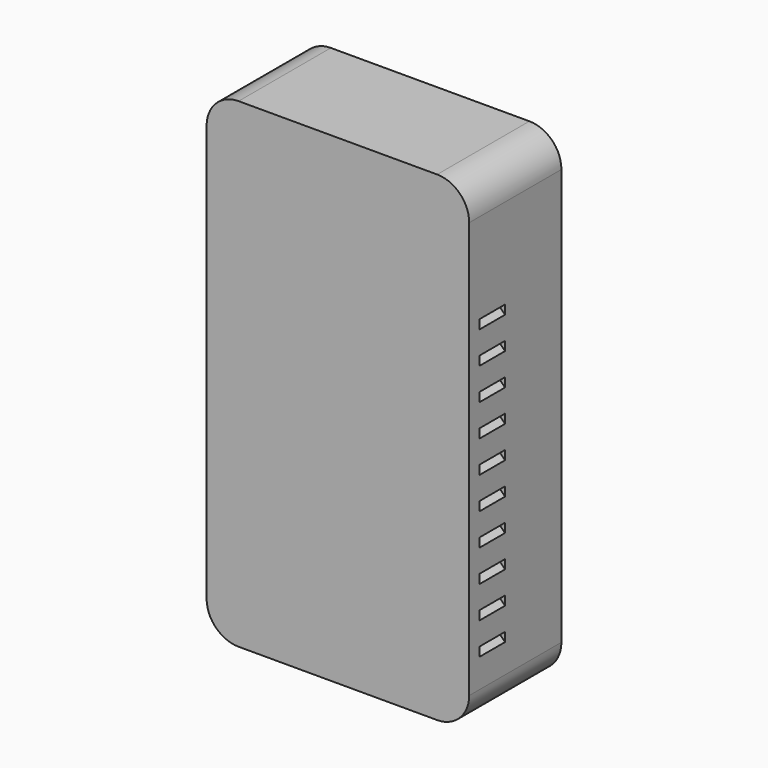
from build123d import *

# Parameters (mm, degrees)
BOX057_W                    = 20
BOX057_H                    = 10
BOX057_DEPTH                = 2
BOX057_PLACEMENT_ANGLE      = 45
BOX058_W                    = 20
BOX058_H                    = 10
BOX058_DEPTH                = 2
BOX058_PLACEMENT_ANGLE      = 45
BOX059_W                    = 20
BOX059_H                    = 10
BOX059_DEPTH                = 2
BOX059_PLACEMENT_ANGLE      = 45
BOX060_W                    = 10
BOX060_H                    = 10
BOX060_DEPTH                = 2
BOX060_PLACEMENT_ANGLE      = 45
BOX061_W                    = 20
BOX061_H                    = 10
BOX061_DEPTH                = 2
BOX061_PLACEMENT_ANGLE      = 45
BOX062_W                    = 20
BOX062_H                    = 10
BOX062_DEPTH                = 2
BOX062_PLACEMENT_ANGLE      = 45
BOX063_W                    = 20
BOX063_H                    = 10
BOX063_DEPTH                = 2
BOX063_PLACEMENT_ANGLE      = 45
BOX064_W                    = 10
BOX064_H                    = 10
BOX064_DEPTH                = 2
BOX064_PLACEMENT_ANGLE      = 45
BOX065_W                    = 20
BOX065_H                    = 10
BOX065_DEPTH                = 2
BOX065_PLACEMENT_ANGLE      = 45
BOX066_W                    = 20
BOX066_H                    = 10
BOX066_DEPTH                = 2
BOX066_PLACEMENT_ANGLE      = 45
BOX056_W                    = 20
BOX056_H                    = 10
BOX056_DEPTH                = 2
BOX056_PLACEMENT_ANGLE      = 45
FUSION037_PLACEMENT_ANGLE   = 180
BOX046_W                    = 20
BOX046_H                    = 10
BOX046_DEPTH                = 2
BOX046_PLACEMENT_ANGLE      = 45
BOX047_W                    = 20
BOX047_H                    = 10
BOX047_DEPTH                = 2
BOX047_PLACEMENT_ANGLE      = 45
BOX048_W                    = 20
BOX048_H                    = 10
BOX048_DEPTH                = 2
BOX048_PLACEMENT_ANGLE      = 45
BOX049_W                    = 10
BOX049_H                    = 10
BOX049_DEPTH                = 2
BOX049_PLACEMENT_ANGLE      = 45
BOX050_W                    = 20
BOX050_H                    = 10
BOX050_DEPTH                = 2
BOX050_PLACEMENT_ANGLE      = 45
BOX051_W                    = 20
BOX051_H                    = 10
BOX051_DEPTH                = 2
BOX051_PLACEMENT_ANGLE      = 45
BOX052_W                    = 20
BOX052_H                    = 10
BOX052_DEPTH                = 2
BOX052_PLACEMENT_ANGLE      = 45
BOX053_W                    = 20
BOX053_H                    = 10
BOX053_DEPTH                = 2
BOX053_PLACEMENT_ANGLE      = 45
BOX054_W                    = 20
BOX054_H                    = 10
BOX054_DEPTH                = 2
BOX054_PLACEMENT_ANGLE      = 45
BOX055_W                    = 20
BOX055_H                    = 10
BOX055_DEPTH                = 2
BOX055_PLACEMENT_ANGLE      = 45
BOX045_W                    = 20
BOX045_H                    = 10
BOX045_DEPTH                = 2
BOX045_PLACEMENT_ANGLE      = 315
BOX043_W                    = 5
BOX043_H                    = 5
BOX043_DEPTH                = 5
CYLINDER081_R               = 1.6
CYLINDER081_DEPTH           = 12
CYLINDER080_R               = 3.5
CYLINDER080_DEPTH           = 12
CYLINDER075_R               = 2.8
CYLINDER075_DEPTH           = 10
CYLINDER074_R               = 5.5
CYLINDER074_DEPTH           = 22
CYLINDER074_ROLL_ANGLE      = 90.312904
CYLINDER074_PITCH_ANGLE     = -60.355913
CYLINDER074_PLACEMENT_ANGLE = 179.461903
CYLINDER077_R               = 2.8
CYLINDER077_DEPTH           = 10
CYLINDER076_R               = 5.5
CYLINDER076_DEPTH           = 22
CYLINDER076_ROLL_ANGLE      = 90
CYLINDER076_PITCH_ANGLE     = -60
CYLINDER076_PLACEMENT_ANGLE = 180
CYLINDER079_R               = 2.8
CYLINDER079_DEPTH           = 10
CYLINDER078_R               = 5.5
CYLINDER078_DEPTH           = 22
CYLINDER078_ROLL_ANGLE      = 90
CYLINDER078_PITCH_ANGLE     = -60
CYLINDER078_PLACEMENT_ANGLE = 180
CYLINDER054_R               = 1.6
CYLINDER054_DEPTH           = 12
CYLINDER055_R               = 1.6
CYLINDER055_DEPTH           = 12
CYLINDER056_R               = 1.6
CYLINDER056_DEPTH           = 12
CYLINDER057_R               = 1.6
CYLINDER057_DEPTH           = 12
CYLINDER058_R               = 1.6
CYLINDER058_DEPTH           = 12
CYLINDER059_R               = 1.6
CYLINDER059_DEPTH           = 12
CYLINDER060_R               = 1.6
CYLINDER060_DEPTH           = 12
CYLINDER061_R               = 1.6
CYLINDER061_DEPTH           = 12
CYLINDER062_R               = 3.5
CYLINDER062_DEPTH           = 12
CYLINDER063_R               = 3.5
CYLINDER063_DEPTH           = 12
CYLINDER064_R               = 3.5
CYLINDER064_DEPTH           = 12
CYLINDER065_R               = 3.5
CYLINDER065_DEPTH           = 12
CYLINDER066_R               = 3.5
CYLINDER066_DEPTH           = 12
CYLINDER067_R               = 3.5
CYLINDER067_DEPTH           = 12
CYLINDER068_R               = 3.5
CYLINDER068_DEPTH           = 12
CYLINDER051_R               = 1.57
CYLINDER051_DEPTH           = 6
CYLINDER050_R               = 5.3
CYLINDER050_DEPTH           = 6
CYLINDER052_W               = 5.3
CYLINDER052_H               = 6
CYLINDER052_ANGLE           = 270
CYLINDER053_W               = 5.3
CYLINDER053_H               = 6
CYLINDER053_ANGLE           = 270
CYLINDER045_W               = 10
CYLINDER045_H               = 34
CYLINDER045_ANGLE           = 90
BOX035_W                    = 10
BOX035_H                    = 34
BOX035_DEPTH                = 10
CUT031_PLACEMENT_ANGLE      = 180
CYLINDER046_W               = 10
CYLINDER046_H               = 34
CYLINDER046_ANGLE           = 90
BOX036_W                    = 10
BOX036_H                    = 34
BOX036_DEPTH                = 10
CUT032_PLACEMENT_ANGLE      = 180
CYLINDER047_W               = 10
CYLINDER047_H               = 34
CYLINDER047_ANGLE           = 90
BOX037_W                    = 10
BOX037_H                    = 34
BOX037_DEPTH                = 10
CUT033_PITCH_ANGLE          = -90
CUT033_PLACEMENT_ANGLE      = -180
CYLINDER044_W               = 10
CYLINDER044_H               = 34
CYLINDER044_ANGLE           = 90
BOX033_W                    = 10
BOX033_H                    = 34
BOX033_DEPTH                = 10
CUT030_PITCH_ANGLE          = 90
CUT030_PLACEMENT_ANGLE      = -180
BOX034_W                    = 78
BOX034_H                    = 34
BOX034_DEPTH                = 146
CYLINDER041_W               = 10
CYLINDER041_H               = 36
CYLINDER041_ANGLE           = 90
BOX030_W                    = 10
BOX030_H                    = 36
BOX030_DEPTH                = 10
CUT026_PLACEMENT_ANGLE      = 180
CYLINDER042_W               = 10
CYLINDER042_H               = 36
CYLINDER042_ANGLE           = 90
BOX031_W                    = 10
BOX031_H                    = 36
BOX031_DEPTH                = 10
CUT027_PLACEMENT_ANGLE      = 180
CYLINDER043_W               = 10
CYLINDER043_H               = 36
CYLINDER043_ANGLE           = 90
BOX032_W                    = 10
BOX032_H                    = 36
BOX032_DEPTH                = 10
CUT028_PITCH_ANGLE          = -90
CUT028_PLACEMENT_ANGLE      = -180
CYLINDER040_W               = 10
CYLINDER040_H               = 36
CYLINDER040_ANGLE           = 90
BOX028_W                    = 10
BOX028_H                    = 36
BOX028_DEPTH                = 10
CUT025_PITCH_ANGLE          = 90
CUT025_PLACEMENT_ANGLE      = -180
BOX029_W                    = 82
BOX029_H                    = 36
BOX029_DEPTH                = 150
CUT035_PLACEMENT_ANGLE      = 180
CYLINDER048_R               = 1.57
CYLINDER048_DEPTH           = 6
CYLINDER049_R               = 5.3
CYLINDER049_DEPTH           = 6
CYLINDER069_R               = 3.5
CYLINDER069_DEPTH           = 12
CYLINDER073_R               = 2.8
CYLINDER073_DEPTH           = 10
CYLINDER072_R               = 5.5
CYLINDER072_DEPTH           = 22
CYLINDER072_ROLL_ANGLE      = 90
CYLINDER072_PITCH_ANGLE     = -60
CYLINDER072_PLACEMENT_ANGLE = 180


with BuildPart() as cube048:
    # Box057 → Box057 (new body)
    with BuildSketch(Plane.XY):
        with Locations((10, 5)):
            Rectangle(BOX057_W, BOX057_H)
    extrude(amount=BOX057_DEPTH)


with BuildPart() as cube048_1:
    # Box057 placement: moved
    add(cube048.part.moved(Location((0, 0, 10))).rotate(Axis((0, 0, 10), (0, -1, 0)), BOX057_PLACEMENT_ANGLE))


with BuildPart() as cube049:
    # Box058 → Box058 (new body)
    with BuildSketch(Plane.XY):
        with Locations((10, 5)):
            Rectangle(BOX058_W, BOX058_H)
    extrude(amount=BOX058_DEPTH)


with BuildPart() as cube049_1:
    # Box058 placement: moved
    add(cube049.part.moved(Location((0, 0, 20))).rotate(Axis((0, 0, 20), (0, -1, 0)), BOX058_PLACEMENT_ANGLE))


with BuildPart() as cube050:
    # Box059 → Box059 (new body)
    with BuildSketch(Plane.XY):
        with Locations((10, 5)):
            Rectangle(BOX059_W, BOX059_H)
    extrude(amount=BOX059_DEPTH)


with BuildPart() as cube050_1:
    # Box059 placement: moved
    add(cube050.part.moved(Location((0, 0, 30))).rotate(Axis((0, 0, 30), (0, -1, 0)), BOX059_PLACEMENT_ANGLE))


with BuildPart() as cube051:
    # Box060 → Box060 (new body)
    with BuildSketch(Plane.XY):
        with Locations((5, 5)):
            Rectangle(BOX060_W, BOX060_H)
    extrude(amount=BOX060_DEPTH)


with BuildPart() as cube051_1:
    # Box060 placement: moved
    add(cube051.part.moved(Location((0, 0, 40))).rotate(Axis((0, 0, 40), (0, -1, 0)), BOX060_PLACEMENT_ANGLE))


with BuildPart() as cube052:
    # Box061 → Box061 (new body)
    with BuildSketch(Plane.XY):
        with Locations((10, 5)):
            Rectangle(BOX061_W, BOX061_H)
    extrude(amount=BOX061_DEPTH)


with BuildPart() as cube052_1:
    # Box061 placement: moved
    add(cube052.part.moved(Location((0, 0, 50))).rotate(Axis((0, 0, 50), (0, -1, 0)), BOX061_PLACEMENT_ANGLE))


with BuildPart() as cube053:
    # Box062 → Box062 (new body)
    with BuildSketch(Plane.XY):
        with Locations((10, 5)):
            Rectangle(BOX062_W, BOX062_H)
    extrude(amount=BOX062_DEPTH)


with BuildPart() as cube053_1:
    # Box062 placement: moved
    add(cube053.part.moved(Location((0, 0, 60))).rotate(Axis((0, 0, 60), (0, -1, 0)), BOX062_PLACEMENT_ANGLE))


with BuildPart() as cube054:
    # Box063 → Box063 (new body)
    with BuildSketch(Plane.XY):
        with Locations((10, 5)):
            Rectangle(BOX063_W, BOX063_H)
    extrude(amount=BOX063_DEPTH)


with BuildPart() as cube054_1:
    # Box063 placement: moved
    add(cube054.part.moved(Location((0, 0, 70))).rotate(Axis((0, 0, 70), (0, -1, 0)), BOX063_PLACEMENT_ANGLE))


with BuildPart() as cube055:
    # Box064 → Box064 (new body)
    with BuildSketch(Plane.XY):
        with Locations((5, 5)):
            Rectangle(BOX064_W, BOX064_H)
    extrude(amount=BOX064_DEPTH)


with BuildPart() as cube055_1:
    # Box064 placement: moved
    add(cube055.part.moved(Location((0, 0, 80))).rotate(Axis((0, 0, 80), (0, -1, 0)), BOX064_PLACEMENT_ANGLE))


with BuildPart() as cube056:
    # Box065 → Box065 (new body)
    with BuildSketch(Plane.XY):
        with Locations((10, 5)):
            Rectangle(BOX065_W, BOX065_H)
    extrude(amount=BOX065_DEPTH)


with BuildPart() as cube056_1:
    # Box065 placement: moved
    add(cube056.part.moved(Location((0, 0, 90))).rotate(Axis((0, 0, 90), (0, -1, 0)), BOX065_PLACEMENT_ANGLE))


with BuildPart() as cube057:
    # Box066 → Box066 (new body)
    with BuildSketch(Plane.XY):
        with Locations((10, 5)):
            Rectangle(BOX066_W, BOX066_H)
    extrude(amount=BOX066_DEPTH)


with BuildPart() as cube057_1:
    # Box066 placement: moved
    add(cube057.part.moved(Location((0, 0, 1000))).rotate(Axis((0, 0, 1000), (0, -1, 0)), BOX066_PLACEMENT_ANGLE))


with BuildPart() as fusion037:
    # Box056 → Box056 (new body)
    with BuildSketch(Plane.XY):
        with Locations((10, 5)):
            Rectangle(BOX056_W, BOX056_H)
    extrude(amount=BOX056_DEPTH)


with BuildPart() as fusion037_1:
    # Box056 placement: moved
    add(fusion037.part.rotate(Axis((0, 0, 0), (0, -1, 0)), BOX056_PLACEMENT_ANGLE))

    # Fusion037: union Cube048, Cube049, Cube050, Cube051, Cube052, Cube053, Cube054, Cube055, Cube056, Cube057
    add(cube048_1.part)
    add(cube049_1.part)
    add(cube050_1.part)
    add(cube051_1.part)
    add(cube052_1.part)
    add(cube053_1.part)
    add(cube054_1.part)
    add(cube055_1.part)
    add(cube056_1.part)
    add(cube057_1.part)


with BuildPart() as fusion037_2:
    # Fusion037 placement: moved
    add(fusion037_1.part.moved(Location((82, 0, 15))).rotate(Axis((82, 0, 15), (0, 0, 1)), FUSION037_PLACEMENT_ANGLE))


with BuildPart() as cube037:
    # Box046 → Box046 (new body)
    with BuildSketch(Plane.XY):
        with Locations((10, 5)):
            Rectangle(BOX046_W, BOX046_H)
    extrude(amount=BOX046_DEPTH)


with BuildPart() as cube037_1:
    # Box046 placement: moved
    add(cube037.part.moved(Location((0, 0, 10))).rotate(Axis((0, 0, 10), (0, -1, 0)), BOX046_PLACEMENT_ANGLE))


with BuildPart() as cube038:
    # Box047 → Box047 (new body)
    with BuildSketch(Plane.XY):
        with Locations((10, 5)):
            Rectangle(BOX047_W, BOX047_H)
    extrude(amount=BOX047_DEPTH)


with BuildPart() as cube038_1:
    # Box047 placement: moved
    add(cube038.part.moved(Location((0, 0, 20))).rotate(Axis((0, 0, 20), (0, -1, 0)), BOX047_PLACEMENT_ANGLE))


with BuildPart() as cube039:
    # Box048 → Box048 (new body)
    with BuildSketch(Plane.XY):
        with Locations((10, 5)):
            Rectangle(BOX048_W, BOX048_H)
    extrude(amount=BOX048_DEPTH)


with BuildPart() as cube039_1:
    # Box048 placement: moved
    add(cube039.part.moved(Location((0, 0, 30))).rotate(Axis((0, 0, 30), (0, -1, 0)), BOX048_PLACEMENT_ANGLE))


with BuildPart() as cube040:
    # Box049 → Box049 (new body)
    with BuildSketch(Plane.XY):
        with Locations((5, 5)):
            Rectangle(BOX049_W, BOX049_H)
    extrude(amount=BOX049_DEPTH)


with BuildPart() as cube040_1:
    # Box049 placement: moved
    add(cube040.part.moved(Location((0, 0, 40))).rotate(Axis((0, 0, 40), (0, -1, 0)), BOX049_PLACEMENT_ANGLE))


with BuildPart() as cube041:
    # Box050 → Box050 (new body)
    with BuildSketch(Plane.XY):
        with Locations((10, 5)):
            Rectangle(BOX050_W, BOX050_H)
    extrude(amount=BOX050_DEPTH)


with BuildPart() as cube041_1:
    # Box050 placement: moved
    add(cube041.part.moved(Location((0, 0, 50))).rotate(Axis((0, 0, 50), (0, -1, 0)), BOX050_PLACEMENT_ANGLE))


with BuildPart() as cube042:
    # Box051 → Box051 (new body)
    with BuildSketch(Plane.XY):
        with Locations((10, 5)):
            Rectangle(BOX051_W, BOX051_H)
    extrude(amount=BOX051_DEPTH)


with BuildPart() as cube042_1:
    # Box051 placement: moved
    add(cube042.part.moved(Location((0, 0, 60))).rotate(Axis((0, 0, 60), (0, -1, 0)), BOX051_PLACEMENT_ANGLE))


with BuildPart() as cube043:
    # Box052 → Box052 (new body)
    with BuildSketch(Plane.XY):
        with Locations((10, 5)):
            Rectangle(BOX052_W, BOX052_H)
    extrude(amount=BOX052_DEPTH)


with BuildPart() as cube043_1:
    # Box052 placement: moved
    add(cube043.part.moved(Location((0, 0, 70))).rotate(Axis((0, 0, 70), (0, -1, 0)), BOX052_PLACEMENT_ANGLE))


with BuildPart() as cube044:
    # Box053 → Box053 (new body)
    with BuildSketch(Plane.XY):
        with Locations((10, 5)):
            Rectangle(BOX053_W, BOX053_H)
    extrude(amount=BOX053_DEPTH)


with BuildPart() as cube044_1:
    # Box053 placement: moved
    add(cube044.part.moved(Location((0, 0, 80))).rotate(Axis((0, 0, 80), (0, -1, 0)), BOX053_PLACEMENT_ANGLE))


with BuildPart() as cube045:
    # Box054 → Box054 (new body)
    with BuildSketch(Plane.XY):
        with Locations((10, 5)):
            Rectangle(BOX054_W, BOX054_H)
    extrude(amount=BOX054_DEPTH)


with BuildPart() as cube045_1:
    # Box054 placement: moved
    add(cube045.part.moved(Location((0, 0, 90))).rotate(Axis((0, 0, 90), (0, -1, 0)), BOX054_PLACEMENT_ANGLE))


with BuildPart() as cube046:
    # Box055 → Box055 (new body)
    with BuildSketch(Plane.XY):
        with Locations((10, 5)):
            Rectangle(BOX055_W, BOX055_H)
    extrude(amount=BOX055_DEPTH)


with BuildPart() as cube046_1:
    # Box055 placement: moved
    add(cube046.part.moved(Location((0, 0, 1000))).rotate(Axis((0, 0, 1000), (0, -1, 0)), BOX055_PLACEMENT_ANGLE))


with BuildPart() as vents:
    # Box045 → Box045 (new body)
    with BuildSketch(Plane.XY):
        with Locations((10, 5)):
            Rectangle(BOX045_W, BOX045_H)
    extrude(amount=BOX045_DEPTH)


with BuildPart() as vents_1:
    # Box045 placement: moved
    add(vents.part.rotate(Axis((0, 0, 0), (0, 1, 0)), BOX045_PLACEMENT_ANGLE))

    # Fusion036: union Cube037, Cube038, Cube039, Cube040, Cube041, Cube042, Cube043, Cube044, Cube045, Cube046
    add(cube037_1.part)
    add(cube038_1.part)
    add(cube039_1.part)
    add(cube040_1.part)
    add(cube041_1.part)
    add(cube042_1.part)
    add(cube043_1.part)
    add(cube044_1.part)
    add(cube045_1.part)
    add(cube046_1.part)


with BuildPart() as vents_2:
    # Fusion036 placement: moved
    add(vents_1.part.moved(Location((-4, -10, 15))))

    # Fusion038: union Fusion037
    add(fusion037_2.part)


with BuildPart() as vents_3:
    # Fusion038 placement: moved
    add(vents_2.part.moved(Location((0, -32, 0))))


with BuildPart() as lightcut:
    # Box043 → Box043 (new body)
    with BuildSketch(Plane(origin=(54.5, -16, -6), x_dir=(1, 0, 0), z_dir=(0, 0, 1))):
        with Locations((2.5, 2.5)):
            Rectangle(BOX043_W, BOX043_H)
    extrude(amount=BOX043_DEPTH)


with BuildPart() as m2heatset009:
    # Cylinder081 → Cylinder081 (new body)
    with BuildSketch(Plane(origin=(8, -44, 67.1), x_dir=(1, 0, 0), z_dir=(0, 1, 0))):
        Circle(CYLINDER081_R)
    extrude(amount=CYLINDER081_DEPTH)


with BuildPart() as m2heatset010:
    # Cylinder080 → Cylinder080 (new body)
    with BuildSketch(Plane(origin=(8, -44, 67.1), x_dir=(1, 0, 0), z_dir=(0, 1, 0))):
        Circle(CYLINDER080_R)
    extrude(amount=CYLINDER080_DEPTH)

    # Cut043: cut m2HeatSet009
    add(m2heatset009.part, mode=Mode.SUBTRACT)


with BuildPart() as m4heatsetcut001:
    # Cylinder075 → Cylinder075 (new body)
    with BuildSketch(Plane(origin=(4.5, -32, 141.5), x_dir=(1, 0, 0), z_dir=(0, 1, 0))):
        Circle(CYLINDER075_R)
    extrude(amount=CYLINDER075_DEPTH)


with BuildPart() as m4heatsetholes001:
    # Cylinder074 → Cylinder074 (new body)
    with BuildSketch(Plane.XY):
        Circle(CYLINDER074_R)
    extrude(amount=CYLINDER074_DEPTH)


with BuildPart() as m4heatsetholes001_1:
    # Cylinder074 roll: moved
    add(m4heatsetholes001.part.rotate(Axis((0, 0, 0), (1, 0, 0)), CYLINDER074_ROLL_ANGLE))


with BuildPart() as m4heatsetholes001_2:
    # Cylinder074 pitch: moved
    add(m4heatsetholes001_1.part.rotate(Axis((0, 0, 0), (0, 1, 0)), CYLINDER074_PITCH_ANGLE))


with BuildPart() as m4heatsetholes001_3:
    # Cylinder074 placement: moved
    add(m4heatsetholes001_2.part.moved(Location((4.5, -44, 141.5))).rotate(Axis((4.5, -44, 141.5), (0, 0, 1)), CYLINDER074_PLACEMENT_ANGLE))

    # Cut040: cut m4HeatSetCut001
    add(m4heatsetcut001.part, mode=Mode.SUBTRACT)


with BuildPart() as m4heatsetholes001_4:
    # Cut040 placement: moved
    add(m4heatsetholes001_3.part.moved(Location((68.5, 0, -0.5))))


with BuildPart() as m4heatsetcut002:
    # Cylinder077 → Cylinder077 (new body)
    with BuildSketch(Plane(origin=(4.5, -32, 141.5), x_dir=(1, 0, 0), z_dir=(0, 1, 0))):
        Circle(CYLINDER077_R)
    extrude(amount=CYLINDER077_DEPTH)


with BuildPart() as m4heatsetholes002:
    # Cylinder076 → Cylinder076 (new body)
    with BuildSketch(Plane.XY):
        Circle(CYLINDER076_R)
    extrude(amount=CYLINDER076_DEPTH)


with BuildPart() as m4heatsetholes002_1:
    # Cylinder076 roll: moved
    add(m4heatsetholes002.part.rotate(Axis((0, 0, 0), (1, 0, 0)), CYLINDER076_ROLL_ANGLE))


with BuildPart() as m4heatsetholes002_2:
    # Cylinder076 pitch: moved
    add(m4heatsetholes002_1.part.rotate(Axis((0, 0, 0), (0, 1, 0)), CYLINDER076_PITCH_ANGLE))


with BuildPart() as m4heatsetholes002_3:
    # Cylinder076 placement: moved
    add(m4heatsetholes002_2.part.moved(Location((4.5, -44, 141.5))).rotate(Axis((4.5, -44, 141.5), (0, 0, 1)), CYLINDER076_PLACEMENT_ANGLE))

    # Cut041: cut m4HeatSetCut002
    add(m4heatsetcut002.part, mode=Mode.SUBTRACT)


with BuildPart() as m4heatsetholes002_4:
    # Cut041 placement: moved
    add(m4heatsetholes002_3.part.moved(Location((0.5, 0, -136.5))))


with BuildPart() as m4heatsetcut003:
    # Cylinder079 → Cylinder079 (new body)
    with BuildSketch(Plane(origin=(4.5, -32, 141.5), x_dir=(1, 0, 0), z_dir=(0, 1, 0))):
        Circle(CYLINDER079_R)
    extrude(amount=CYLINDER079_DEPTH)


with BuildPart() as m4heatsetholes003:
    # Cylinder078 → Cylinder078 (new body)
    with BuildSketch(Plane.XY):
        Circle(CYLINDER078_R)
    extrude(amount=CYLINDER078_DEPTH)


with BuildPart() as m4heatsetholes003_1:
    # Cylinder078 roll: moved
    add(m4heatsetholes003.part.rotate(Axis((0, 0, 0), (1, 0, 0)), CYLINDER078_ROLL_ANGLE))


with BuildPart() as m4heatsetholes003_2:
    # Cylinder078 pitch: moved
    add(m4heatsetholes003_1.part.rotate(Axis((0, 0, 0), (0, 1, 0)), CYLINDER078_PITCH_ANGLE))


with BuildPart() as m4heatsetholes003_3:
    # Cylinder078 placement: moved
    add(m4heatsetholes003_2.part.moved(Location((4.5, -44, 141.5))).rotate(Axis((4.5, -44, 141.5), (0, 0, 1)), CYLINDER078_PLACEMENT_ANGLE))

    # Cut042: cut m4HeatSetCut003
    add(m4heatsetcut003.part, mode=Mode.SUBTRACT)


with BuildPart() as m4heatsetholes003_4:
    # Cut042 placement: moved
    add(m4heatsetholes003_3.part.moved(Location((68.5, 0, -136.5))))


with BuildPart() as m2heatset001:
    # Cylinder054 → Cylinder054 (new body)
    with BuildSketch(Plane(origin=(8, -44, 67.1), x_dir=(1, 0, 0), z_dir=(0, 1, 0))):
        Circle(CYLINDER054_R)
    extrude(amount=CYLINDER054_DEPTH)


with BuildPart() as m2heatset002:
    # Cylinder055 → Cylinder055 (new body)
    with BuildSketch(Plane(origin=(28, -44, 67.1), x_dir=(1, 0, 0), z_dir=(0, 1, 0))):
        Circle(CYLINDER055_R)
    extrude(amount=CYLINDER055_DEPTH)


with BuildPart() as m2heatset003:
    # Cylinder056 → Cylinder056 (new body)
    with BuildSketch(Plane(origin=(68, -44, 67.1), x_dir=(1, 0, 0), z_dir=(0, 1, 0))):
        Circle(CYLINDER056_R)
    extrude(amount=CYLINDER056_DEPTH)


with BuildPart() as m2heatset004:
    # Cylinder057 → Cylinder057 (new body)
    with BuildSketch(Plane(origin=(18.2, -44, 97), x_dir=(1, 0, 0), z_dir=(0, 1, 0))):
        Circle(CYLINDER057_R)
    extrude(amount=CYLINDER057_DEPTH)


with BuildPart() as m2heatset005:
    # Cylinder058 → Cylinder058 (new body)
    with BuildSketch(Plane(origin=(28, -44, 87), x_dir=(1, 0, 0), z_dir=(0, 1, 0))):
        Circle(CYLINDER058_R)
    extrude(amount=CYLINDER058_DEPTH)


with BuildPart() as m2heatset006:
    # Cylinder059 → Cylinder059 (new body)
    with BuildSketch(Plane(origin=(38, -44, 117), x_dir=(1, 0, 0), z_dir=(0, 1, 0))):
        Circle(CYLINDER059_R)
    extrude(amount=CYLINDER059_DEPTH)


with BuildPart() as m2heatset007:
    # Cylinder060 → Cylinder060 (new body)
    with BuildSketch(Plane(origin=(38, -44, 57), x_dir=(1, 0, 0), z_dir=(0, 1, 0))):
        Circle(CYLINDER060_R)
    extrude(amount=CYLINDER060_DEPTH)


with BuildPart() as m2heatset008:
    # Cylinder061 → Cylinder061 (new body)
    with BuildSketch(Plane(origin=(68, -44, 107), x_dir=(1, 0, 0), z_dir=(0, 1, 0))):
        Circle(CYLINDER061_R)
    extrude(amount=CYLINDER061_DEPTH)


with BuildPart() as m2heatsetcuts:
    # Cylinder062 → Cylinder062 (new body)
    with BuildSketch(Plane(origin=(8, -44, 67.1), x_dir=(1, 0, 0), z_dir=(0, 1, 0))):
        Circle(CYLINDER062_R)
    extrude(amount=CYLINDER062_DEPTH)

    # Fusion021: union m2HeatSet001, m2HeatSet002, m2HeatSet003, m2HeatSet004, m2HeatSet005, m2HeatSet006, m2HeatSet007, m2HeatSet008
    add(m2heatset001.part)
    add(m2heatset002.part)
    add(m2heatset003.part)
    add(m2heatset004.part)
    add(m2heatset005.part)
    add(m2heatset006.part)
    add(m2heatset007.part)
    add(m2heatset008.part)


with BuildPart() as obj1:
    # Cylinder063 → Cylinder063 (new body)
    with BuildSketch(Plane(origin=(28, -44, 67.1), x_dir=(1, 0, 0), z_dir=(0, 1, 0))):
        Circle(CYLINDER063_R)
    extrude(amount=CYLINDER063_DEPTH)


with BuildPart() as obj2:
    # Cylinder064 → Cylinder064 (new body)
    with BuildSketch(Plane(origin=(18.2, -44, 97), x_dir=(1, 0, 0), z_dir=(0, 1, 0))):
        Circle(CYLINDER064_R)
    extrude(amount=CYLINDER064_DEPTH)


with BuildPart() as obj3:
    # Cylinder065 → Cylinder065 (new body)
    with BuildSketch(Plane(origin=(68, -44, 67.1), x_dir=(1, 0, 0), z_dir=(0, 1, 0))):
        Circle(CYLINDER065_R)
    extrude(amount=CYLINDER065_DEPTH)


with BuildPart() as obj4:
    # Cylinder066 → Cylinder066 (new body)
    with BuildSketch(Plane(origin=(28, -44, 87), x_dir=(1, 0, 0), z_dir=(0, 1, 0))):
        Circle(CYLINDER066_R)
    extrude(amount=CYLINDER066_DEPTH)


with BuildPart() as obj5:
    # Cylinder067 → Cylinder067 (new body)
    with BuildSketch(Plane(origin=(38, -44, 57), x_dir=(1, 0, 0), z_dir=(0, 1, 0))):
        Circle(CYLINDER067_R)
    extrude(amount=CYLINDER067_DEPTH)


with BuildPart() as obj6:
    # Cylinder068 → Cylinder068 (new body)
    with BuildSketch(Plane(origin=(68, -44, 107), x_dir=(1, 0, 0), z_dir=(0, 1, 0))):
        Circle(CYLINDER068_R)
    extrude(amount=CYLINDER068_DEPTH)


with BuildPart() as cylinder051:
    # Cylinder051 → Cylinder051 (new body)
    with BuildSketch(Plane(origin=(59.6, -44, 48.15), x_dir=(1, 0, 0), z_dir=(0, 1, 0))):
        Circle(CYLINDER051_R)
    extrude(amount=CYLINDER051_DEPTH)


with BuildPart() as cut037:
    # Cylinder050 → Cylinder050 (new body)
    with BuildSketch(Plane(origin=(62.1, -44, 50.65), x_dir=(0, 0, -1), z_dir=(0, 1, 0))):
        Circle(CYLINDER050_R)
    extrude(amount=CYLINDER050_DEPTH)

    # Cut037: cut Cylinder051
    add(cylinder051.part, mode=Mode.SUBTRACT)


with BuildPart() as cylinder052:
    # Cylinder052 → Cylinder052 (revolve)
    with BuildSketch(Plane(origin=(15, -38, 7.55), x_dir=(1, 0, 0), z_dir=(0, 0, 1))):
        with Locations((2.65, 3)):
            Rectangle(CYLINDER052_W, CYLINDER052_H)
    revolve(axis=Axis((15, -38, 7.55), (0, 1, 0)), revolution_arc=CYLINDER052_ANGLE)


with BuildPart() as cylinder053:
    # Cylinder053 → Cylinder053 (revolve)
    with BuildSketch(Plane(origin=(62.1, -38, 50.65), x_dir=(-1, 0, 0), z_dir=(0, 0, -1))):
        with Locations((2.65, 3)):
            Rectangle(CYLINDER053_W, CYLINDER053_H)
    revolve(axis=Axis((62.1, -38, 50.65), (0, 1, 0)), revolution_arc=CYLINDER053_ANGLE)


with BuildPart() as cylinder045:
    # Cylinder045 → Cylinder045 (revolve)
    with BuildSketch(Plane(origin=(0, 26, 0), x_dir=(1, 0, 0), z_dir=(0, 0, -1))):
        with Locations((5, 17)):
            Rectangle(CYLINDER045_W, CYLINDER045_H)
    revolve(axis=Axis((0, 26, 0), (0, -1, 0)), revolution_arc=CYLINDER045_ANGLE)


with BuildPart() as cut031:
    # Box035 → Box035 (new body)
    with BuildSketch(Plane(origin=(0, -8, 0), x_dir=(1, 0, 0), z_dir=(0, 0, 1))):
        with Locations((5, 17)):
            Rectangle(BOX035_W, BOX035_H)
    extrude(amount=BOX035_DEPTH)

    # Cut031: cut Cylinder045
    add(cylinder045.part, mode=Mode.SUBTRACT)


with BuildPart() as cut031_1:
    # Cut031 placement: moved
    add(cut031.part.moved(Location((70, 18, 8))).rotate(Axis((70, 18, 8), (1, 0, 0)), CUT031_PLACEMENT_ANGLE))


with BuildPart() as cylinder046:
    # Cylinder046 → Cylinder046 (revolve)
    with BuildSketch(Plane(origin=(0, 26, 0), x_dir=(1, 0, 0), z_dir=(0, 0, -1))):
        with Locations((5, 17)):
            Rectangle(CYLINDER046_W, CYLINDER046_H)
    revolve(axis=Axis((0, 26, 0), (0, -1, 0)), revolution_arc=CYLINDER046_ANGLE)


with BuildPart() as cut032:
    # Box036 → Box036 (new body)
    with BuildSketch(Plane(origin=(0, -8, 0), x_dir=(1, 0, 0), z_dir=(0, 0, 1))):
        with Locations((5, 17)):
            Rectangle(BOX036_W, BOX036_H)
    extrude(amount=BOX036_DEPTH)

    # Cut032: cut Cylinder046
    add(cylinder046.part, mode=Mode.SUBTRACT)


with BuildPart() as cut032_1:
    # Cut032 placement: moved
    add(cut032.part.moved(Location((12, 18, 134))).rotate(Axis((12, 18, 134), (0, 0, 1)), CUT032_PLACEMENT_ANGLE))


with BuildPart() as cylinder047:
    # Cylinder047 → Cylinder047 (revolve)
    with BuildSketch(Plane(origin=(0, 26, 0), x_dir=(1, 0, 0), z_dir=(0, 0, -1))):
        with Locations((5, 17)):
            Rectangle(CYLINDER047_W, CYLINDER047_H)
    revolve(axis=Axis((0, 26, 0), (0, -1, 0)), revolution_arc=CYLINDER047_ANGLE)


with BuildPart() as cut033:
    # Box037 → Box037 (new body)
    with BuildSketch(Plane(origin=(0, -8, 0), x_dir=(1, 0, 0), z_dir=(0, 0, 1))):
        with Locations((5, 17)):
            Rectangle(BOX037_W, BOX037_H)
    extrude(amount=BOX037_DEPTH)

    # Cut033: cut Cylinder047
    add(cylinder047.part, mode=Mode.SUBTRACT)


with BuildPart() as cut033_1:
    # Cut033 pitch: moved
    add(cut033.part.rotate(Axis((0, 0, 0), (0, 1, 0)), CUT033_PITCH_ANGLE))


with BuildPart() as cut033_2:
    # Cut033 placement: moved
    add(cut033_1.part.moved(Location((70, 18, 134))).rotate(Axis((70, 18, 134), (0, 0, 1)), CUT033_PLACEMENT_ANGLE))


with BuildPart() as cylinder044:
    # Cylinder044 → Cylinder044 (revolve)
    with BuildSketch(Plane(origin=(0, 26, 0), x_dir=(1, 0, 0), z_dir=(0, 0, -1))):
        with Locations((5, 17)):
            Rectangle(CYLINDER044_W, CYLINDER044_H)
    revolve(axis=Axis((0, 26, 0), (0, -1, 0)), revolution_arc=CYLINDER044_ANGLE)


with BuildPart() as fusion018:
    # Box033 → Box033 (new body)
    with BuildSketch(Plane(origin=(0, -8, 0), x_dir=(1, 0, 0), z_dir=(0, 0, 1))):
        with Locations((5, 17)):
            Rectangle(BOX033_W, BOX033_H)
    extrude(amount=BOX033_DEPTH)

    # Cut030: cut Cylinder044
    add(cylinder044.part, mode=Mode.SUBTRACT)


with BuildPart() as fusion018_1:
    # Cut030 pitch: moved
    add(fusion018.part.rotate(Axis((0, 0, 0), (0, 1, 0)), CUT030_PITCH_ANGLE))


with BuildPart() as fusion018_2:
    # Cut030 placement: moved
    add(fusion018_1.part.moved(Location((12, 18, 8))).rotate(Axis((12, 18, 8), (0, 0, 1)), CUT030_PLACEMENT_ANGLE))

    # Fusion018: union Cut031, Cut032, Cut033
    add(cut031_1.part)
    add(cut032_1.part)
    add(cut033_2.part)


with BuildPart() as obj7:
    # Box034 → Box034 (new body)
    with BuildSketch(Plane(origin=(80, 26, -2), x_dir=(-1, 0, 0), z_dir=(0, 0, 1))):
        with Locations((39, 17)):
            Rectangle(BOX034_W, BOX034_H)
    extrude(amount=BOX034_DEPTH)

    # Cut034: cut Fusion018
    add(fusion018_2.part, mode=Mode.SUBTRACT)


with BuildPart() as obj7_1:
    # Cut034 placement: moved
    add(obj7.part.moved(Location((-2, -2, 2))))


with BuildPart() as cylinder041:
    # Cylinder041 → Cylinder041 (revolve)
    with BuildSketch(Plane(origin=(0, 26, 0), x_dir=(1, 0, 0), z_dir=(0, 0, -1))):
        with Locations((5, 18)):
            Rectangle(CYLINDER041_W, CYLINDER041_H)
    revolve(axis=Axis((0, 26, 0), (0, -1, 0)), revolution_arc=CYLINDER041_ANGLE)


with BuildPart() as cut026:
    # Box030 → Box030 (new body)
    with BuildSketch(Plane(origin=(0, -10, 0), x_dir=(1, 0, 0), z_dir=(0, 0, 1))):
        with Locations((5, 18)):
            Rectangle(BOX030_W, BOX030_H)
    extrude(amount=BOX030_DEPTH)

    # Cut026: cut Cylinder041
    add(cylinder041.part, mode=Mode.SUBTRACT)


with BuildPart() as cut026_1:
    # Cut026 placement: moved
    add(cut026.part.moved(Location((70, 18, 8))).rotate(Axis((70, 18, 8), (1, 0, 0)), CUT026_PLACEMENT_ANGLE))


with BuildPart() as cylinder042:
    # Cylinder042 → Cylinder042 (revolve)
    with BuildSketch(Plane(origin=(0, 26, 0), x_dir=(1, 0, 0), z_dir=(0, 0, -1))):
        with Locations((5, 18)):
            Rectangle(CYLINDER042_W, CYLINDER042_H)
    revolve(axis=Axis((0, 26, 0), (0, -1, 0)), revolution_arc=CYLINDER042_ANGLE)


with BuildPart() as cut027:
    # Box031 → Box031 (new body)
    with BuildSketch(Plane(origin=(0, -10, 0), x_dir=(1, 0, 0), z_dir=(0, 0, 1))):
        with Locations((5, 18)):
            Rectangle(BOX031_W, BOX031_H)
    extrude(amount=BOX031_DEPTH)

    # Cut027: cut Cylinder042
    add(cylinder042.part, mode=Mode.SUBTRACT)


with BuildPart() as cut027_1:
    # Cut027 placement: moved
    add(cut027.part.moved(Location((8, 18, 138))).rotate(Axis((8, 18, 138), (0, 0, 1)), CUT027_PLACEMENT_ANGLE))


with BuildPart() as cylinder043:
    # Cylinder043 → Cylinder043 (revolve)
    with BuildSketch(Plane(origin=(0, 26, 0), x_dir=(1, 0, 0), z_dir=(0, 0, -1))):
        with Locations((5, 18)):
            Rectangle(CYLINDER043_W, CYLINDER043_H)
    revolve(axis=Axis((0, 26, 0), (0, -1, 0)), revolution_arc=CYLINDER043_ANGLE)


with BuildPart() as cut028:
    # Box032 → Box032 (new body)
    with BuildSketch(Plane(origin=(0, -10, 0), x_dir=(1, 0, 0), z_dir=(0, 0, 1))):
        with Locations((5, 18)):
            Rectangle(BOX032_W, BOX032_H)
    extrude(amount=BOX032_DEPTH)

    # Cut028: cut Cylinder043
    add(cylinder043.part, mode=Mode.SUBTRACT)


with BuildPart() as cut028_1:
    # Cut028 pitch: moved
    add(cut028.part.rotate(Axis((0, 0, 0), (0, 1, 0)), CUT028_PITCH_ANGLE))


with BuildPart() as cut028_2:
    # Cut028 placement: moved
    add(cut028_1.part.moved(Location((70, 18, 138))).rotate(Axis((70, 18, 138), (0, 0, 1)), CUT028_PLACEMENT_ANGLE))


with BuildPart() as cylinder040:
    # Cylinder040 → Cylinder040 (revolve)
    with BuildSketch(Plane(origin=(0, 26, 0), x_dir=(1, 0, 0), z_dir=(0, 0, -1))):
        with Locations((5, 18)):
            Rectangle(CYLINDER040_W, CYLINDER040_H)
    revolve(axis=Axis((0, 26, 0), (0, -1, 0)), revolution_arc=CYLINDER040_ANGLE)


with BuildPart() as fusion017:
    # Box028 → Box028 (new body)
    with BuildSketch(Plane(origin=(0, -10, 0), x_dir=(1, 0, 0), z_dir=(0, 0, 1))):
        with Locations((5, 18)):
            Rectangle(BOX028_W, BOX028_H)
    extrude(amount=BOX028_DEPTH)

    # Cut025: cut Cylinder040
    add(cylinder040.part, mode=Mode.SUBTRACT)


with BuildPart() as fusion017_1:
    # Cut025 pitch: moved
    add(fusion017.part.rotate(Axis((0, 0, 0), (0, 1, 0)), CUT025_PITCH_ANGLE))


with BuildPart() as fusion017_2:
    # Cut025 placement: moved
    add(fusion017_1.part.moved(Location((8, 18, 8))).rotate(Axis((8, 18, 8), (0, 0, 1)), CUT025_PLACEMENT_ANGLE))

    # Fusion017: union Cut026, Cut027, Cut028
    add(cut026_1.part)
    add(cut027_1.part)
    add(cut028_2.part)


with BuildPart() as fusion017_3:
    # Fusion017 placement: moved
    add(fusion017_2.part.moved(Location((0, -2, 0))))


with BuildPart() as basetop:
    # Box029 → Box029 (new body)
    with BuildSketch(Plane(origin=(80, 26, -2), x_dir=(-1, 0, 0), z_dir=(0, 0, 1))):
        with Locations((41, 18)):
            Rectangle(BOX029_W, BOX029_H)
    extrude(amount=BOX029_DEPTH)

    # Cut029: cut Fusion017
    add(fusion017_3.part, mode=Mode.SUBTRACT)

    # Cut035: cut obj7
    add(obj7_1.part, mode=Mode.SUBTRACT)


with BuildPart() as basetop_1:
    # Cut035 placement: moved
    add(basetop.part.moved(Location((78, -20, 0))).rotate(Axis((78, -20, 0), (0, 0, 1)), CUT035_PLACEMENT_ANGLE))


with BuildPart() as cylinder048:
    # Cylinder048 → Cylinder048 (new body)
    with BuildSketch(Plane(origin=(17.5, -44, 10.05), x_dir=(1, 0, 0), z_dir=(0, 1, 0))):
        Circle(CYLINDER048_R)
    extrude(amount=CYLINDER048_DEPTH)


with BuildPart() as basetop001:
    # Cylinder049 → Cylinder049 (new body)
    with BuildSketch(Plane(origin=(15, -44, 7.55), x_dir=(0, 0, 1), z_dir=(0, 1, 0))):
        Circle(CYLINDER049_R)
    extrude(amount=CYLINDER049_DEPTH)

    # Cut036: cut Cylinder048
    add(cylinder048.part, mode=Mode.SUBTRACT)

    # Fusion019: union Cut037, Cylinder052, Cylinder053, baseTop
    add(cut037.part)
    add(cylinder052.part)
    add(cylinder053.part)
    add(basetop_1.part)


with BuildPart() as basetop003:
    # Cylinder069 → Cylinder069 (new body)
    with BuildSketch(Plane(origin=(38, -44, 117), x_dir=(1, 0, 0), z_dir=(0, 1, 0))):
        Circle(CYLINDER069_R)
    extrude(amount=CYLINDER069_DEPTH)

    # Fusion020: union obj1, obj2, obj3, obj4, obj5, obj6, baseTop001
    add(obj1.part)
    add(obj2.part)
    add(obj3.part)
    add(obj4.part)
    add(obj5.part)
    add(obj6.part)
    add(basetop001.part)

    # Cut038: cut m2HeatSetCuts
    add(m2heatsetcuts.part, mode=Mode.SUBTRACT)


with BuildPart() as m4heatsetcut:
    # Cylinder073 → Cylinder073 (new body)
    with BuildSketch(Plane(origin=(4.5, -32, 141.5), x_dir=(1, 0, 0), z_dir=(0, 1, 0))):
        Circle(CYLINDER073_R)
    extrude(amount=CYLINDER073_DEPTH)


with BuildPart() as cut053:
    # Cylinder072 → Cylinder072 (new body)
    with BuildSketch(Plane.XY):
        Circle(CYLINDER072_R)
    extrude(amount=CYLINDER072_DEPTH)


with BuildPart() as cut053_1:
    # Cylinder072 roll: moved
    add(cut053.part.rotate(Axis((0, 0, 0), (1, 0, 0)), CYLINDER072_ROLL_ANGLE))


with BuildPart() as cut053_2:
    # Cylinder072 pitch: moved
    add(cut053_1.part.rotate(Axis((0, 0, 0), (0, 1, 0)), CYLINDER072_PITCH_ANGLE))


with BuildPart() as cut053_3:
    # Cylinder072 placement: moved
    add(cut053_2.part.moved(Location((4.5, -44, 141.5))).rotate(Axis((4.5, -44, 141.5), (0, 0, 1)), CYLINDER072_PLACEMENT_ANGLE))

    # Cut039: cut m4HeatSetCut
    add(m4heatsetcut.part, mode=Mode.SUBTRACT)


with BuildPart() as cut053_4:
    # Cut039 placement: moved
    add(cut053_3.part.moved(Location((0.5, 0, -0.5))))

    # Fusion023: union m4HeatSetHoles001, m4HeatSetHoles002, m4HeatSetHoles003, baseTop003
    add(m4heatsetholes001_4.part)
    add(m4heatsetholes002_4.part)
    add(m4heatsetholes003_4.part)
    add(basetop003.part)

    # Fusion024: union m2HeatSet010
    add(m2heatset010.part)

    # Cut052: cut lightCut
    add(lightcut.part, mode=Mode.SUBTRACT)

    # Cut053: cut vents
    add(vents_3.part, mode=Mode.SUBTRACT)


solid = cut053_4.part
